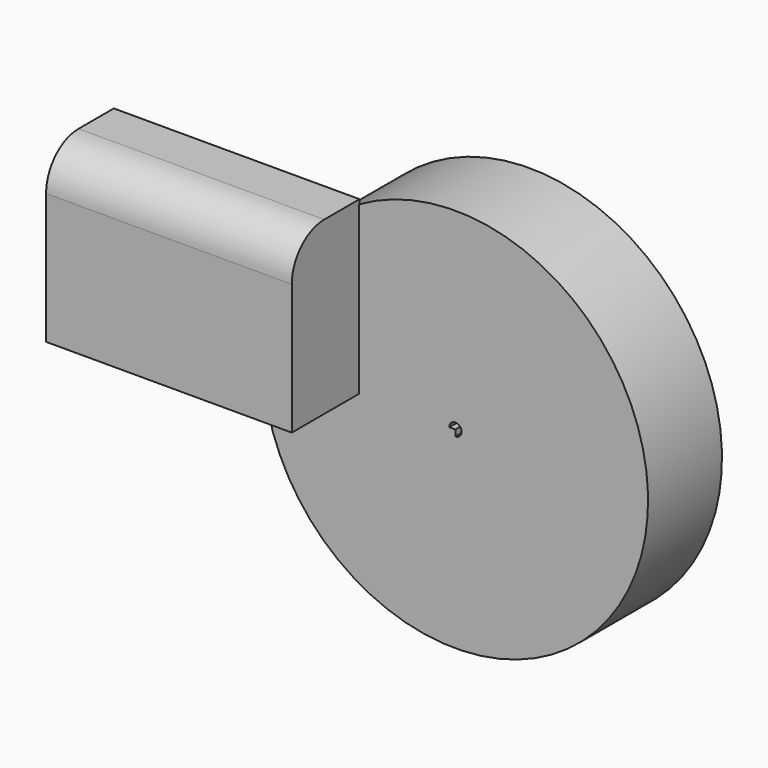
from build123d import *

# Parameters (mm, degrees)
F0_W      = 93.019191
F0_H      = 32.043829
F1_DEPTH  = 64.77
F2_R      = 15.330256
F3_W      = 34.98908
F3_H      = 2.32445
F4_DEPTH  = 72.898
F4_FACE_W = 72.898
F4_FACE_H = 34.98908


with BuildPart() as f1:
    # F0 (on Top) → F1 (new body)
    with BuildSketch(Plane.XY):
        with Locations((-10.116236, -0.464286)):
            Rectangle(F0_W, F0_H)
    extrude(amount=F1_DEPTH)

    # F2
    f2_edges = [f1.edges().sort_by_distance(p)[0] for p in [
        (-10.116236, -16.486201, 64.77),
    ]]
    fillet(f2_edges, radius=F2_R)

    # F3 (on Right) → F4 (join)
    with BuildSketch(Plane.YZ):
        with Locations((32.786973, -1.162225)):
            Rectangle(F3_W, F3_H)
    extrude(amount=F4_DEPTH)

    # F4_face (on face) → F5 (revolve)
    with BuildSketch(Plane(origin=(36.449, 32.786973, -2.32445), x_dir=(1, 0, 0), z_dir=(0, 0, -1))):
        Rectangle(F4_FACE_W, F4_FACE_H)
    revolve(axis=Axis((72.898, 32.786973, 0), (0, -1, 0)))


solid = f1.part
